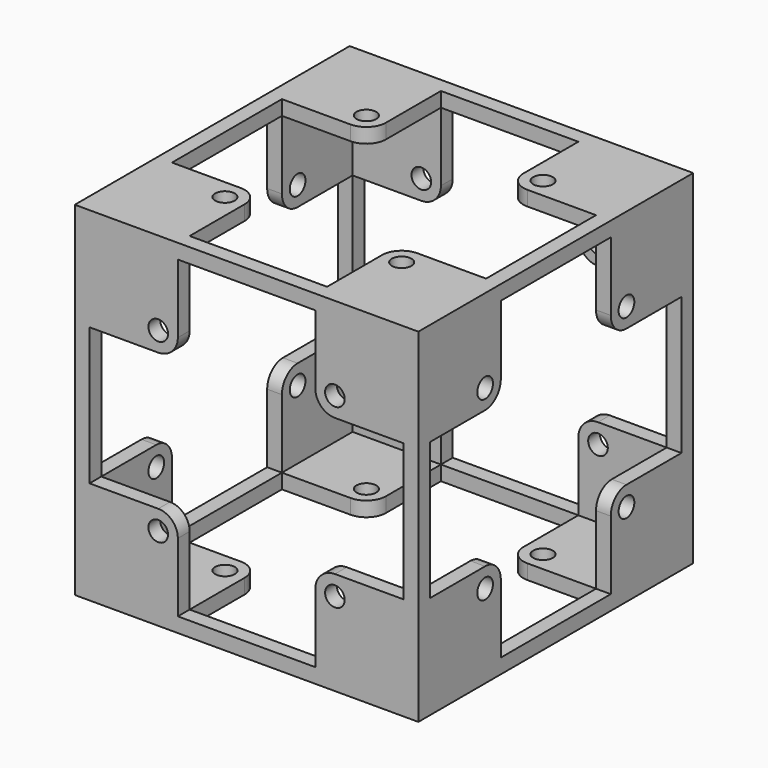
from build123d import *

# Parameters (mm, degrees)
F0_W      = 3
F0_H      = 3
F1_DEPTH  = 35
F2_R      = 2
F3_DEPTH  = 3
F4_R      = 2
F5_DEPTH  = 3
F6_R      = 2
F7_DEPTH  = 3
F8_R      = 2
F9_DEPTH  = 3
F10_R     = 2
F11_DEPTH = 3
F12_R     = 2
F13_DEPTH = 3


with BuildPart() as f1:
    # F0 (on Front) → F1 (new body, symmetric)
    with BuildSketch(Plane.XZ):
        Polygon((-35, 35), (-35, 32), (-32, 32), (-14, 32), (14, 32), (32, 32), (32, 35), align=None)
        Polygon((35, 32), (32, 32), (32, 14), (32, -14), (32, -32), (35, -32), (35, 0), align=None)
        with Locations((33.5, 33.5)):
            Rectangle(F0_W, F0_H)
        Polygon((-35, 32), (-35, 0), (-35, -32), (-32, -32), (-32, -14), (-32, 14), (-32, 32), align=None)
        Polygon((-14, -32), (-32, -32), (-32, -35), (32, -35), (32, -32), (14, -32), align=None)
        with Locations((-33.5, -33.5)):
            Rectangle(F0_W, F0_H)
        with Locations((33.5, -33.5)):
            Rectangle(F0_W, F0_H)
    extrude(amount=F1_DEPTH, both=True)

    # F2 (on face) → F3 (join)
    with BuildSketch(Plane.XZ.offset(35)):
        with BuildLine():
            Line((-32, 14), (-18, 14))
            ThreePointArc((-18, 14), (-20.8284271247, 20.8284271247), (-14, 18))
            Line((-14, 18), (-14, 32))
            Line((-14, 32), (-32, 32))
            Line((-32, 32), (-32, 14))
        make_face()
        with BuildLine():
            ThreePointArc((-14, 18), (-20.8284271247, 20.8284271247), (-18, 14))
            ThreePointArc((-18, 14), (-15.1715728753, 15.1715728753), (-14, 18))
        make_face()
        with Locations((-18, 18)):
            Circle(F2_R, mode=Mode.SUBTRACT)
        with BuildLine():
            ThreePointArc((22, 18), (18, 22), (14, 18))
            ThreePointArc((14, 18), (15.1715728753, 15.1715728753), (18, 14))
            ThreePointArc((18, 14), (20.8284271247, 15.1715728753), (22, 18))
        make_face()
        with Locations((18, 18)):
            Circle(F2_R, mode=Mode.SUBTRACT)
        with BuildLine():
            Line((32, 32), (14, 32))
            Line((14, 32), (14, 18))
            ThreePointArc((14, 18), (18, 22), (22, 18))
            ThreePointArc((22, 18), (20.8284271247, 15.1715728753), (18, 14))
            Line((18, 14), (32, 14))
            Line((32, 14), (32, 32))
        make_face()
        with BuildLine():
            Line((14, -18), (14, -32))
            Line((14, -32), (32, -32))
            Line((32, -32), (32, -14))
            Line((32, -14), (18, -14))
            ThreePointArc((18, -14), (20.8284271247, -15.1715728753), (22, -18))
            ThreePointArc((22, -18), (18, -22), (14, -18))
        make_face()
        with BuildLine():
            ThreePointArc((18, -14), (15.1715728753, -15.1715728753), (14, -18))
            ThreePointArc((14, -18), (18, -22), (22, -18))
            ThreePointArc((22, -18), (20.8284271247, -15.1715728753), (18, -14))
        make_face()
        with Locations((18, -18)):
            Circle(F2_R, mode=Mode.SUBTRACT)
        with BuildLine():
            ThreePointArc((-14, -18), (-15.1715728753, -15.1715728753), (-18, -14))
            ThreePointArc((-18, -14), (-20.8284271247, -20.8284271247), (-14, -18))
        make_face()
        with Locations((-18, -18)):
            Circle(F2_R, mode=Mode.SUBTRACT)
        with BuildLine():
            Line((-18, -14), (-32, -14))
            Line((-32, -14), (-32, -32))
            Line((-32, -32), (-14, -32))
            Line((-14, -32), (-14, -18))
            ThreePointArc((-14, -18), (-20.8284271247, -20.8284271247), (-18, -14))
        make_face()
    extrude(amount=-F3_DEPTH)

    # F4 (on face) → F5 (join)
    with BuildSketch(Plane(origin=(0, 35, 0), x_dir=(-1, 0, 0), z_dir=(0, 1, 0))):
        with BuildLine():
            Line((-14, 18), (-14, 32))
            Line((-14, 32), (-32, 32))
            Line((-32, 32), (-32, 14))
            Line((-32, 14), (-18, 14))
            ThreePointArc((-18, 14), (-20.8284271247, 20.8284271247), (-14, 18))
        make_face()
        with BuildLine():
            ThreePointArc((-18, 14), (-15.1715728753, 15.1715728753), (-14, 18))
            ThreePointArc((-14, 18), (-20.8284271247, 20.8284271247), (-18, 14))
        make_face()
        with Locations((-18, 18)):
            Circle(F4_R, mode=Mode.SUBTRACT)
        with BuildLine():
            Line((14, 32), (14, 18))
            ThreePointArc((14, 18), (18, 22), (22, 18))
            ThreePointArc((22, 18), (20.8284271247, 15.1715728753), (18, 14))
            Line((18, 14), (32, 14))
            Line((32, 14), (32, 32))
            Line((32, 32), (14, 32))
        make_face()
        with BuildLine():
            ThreePointArc((22, 18), (18, 22), (14, 18))
            ThreePointArc((14, 18), (15.1715728753, 15.1715728753), (18, 14))
            ThreePointArc((18, 14), (20.8284271247, 15.1715728753), (22, 18))
        make_face()
        with Locations((18, 18)):
            Circle(F4_R, mode=Mode.SUBTRACT)
        with BuildLine():
            Line((32, -32), (32, -14))
            Line((32, -14), (18, -14))
            ThreePointArc((18, -14), (20.8284271247, -15.1715728753), (22, -18))
            ThreePointArc((22, -18), (18, -22), (14, -18))
            Line((14, -18), (14, -32))
            Line((14, -32), (32, -32))
        make_face()
        with BuildLine():
            ThreePointArc((22, -18), (20.8284271247, -15.1715728753), (18, -14))
            ThreePointArc((18, -14), (15.1715728753, -15.1715728753), (14, -18))
            ThreePointArc((14, -18), (18, -22), (22, -18))
        make_face()
        with Locations((18, -18)):
            Circle(F4_R, mode=Mode.SUBTRACT)
        with BuildLine():
            ThreePointArc((-14, -18), (-15.1715728753, -15.1715728753), (-18, -14))
            ThreePointArc((-18, -14), (-20.8284271247, -20.8284271247), (-14, -18))
        make_face()
        with Locations((-18, -18)):
            Circle(F4_R, mode=Mode.SUBTRACT)
        with BuildLine():
            Line((-18, -14), (-32, -14))
            Line((-32, -14), (-32, -32))
            Line((-32, -32), (-14, -32))
            Line((-14, -32), (-14, -18))
            ThreePointArc((-14, -18), (-20.8284271247, -20.8284271247), (-18, -14))
        make_face()
    extrude(amount=-F5_DEPTH)

    # F6 (on face) → F7 (cut)
    with BuildSketch(Plane.YZ.offset(35)):
        with BuildLine():
            Line((14, 32), (-14, 32))
            Line((-14, 32), (-14, 18))
            ThreePointArc((-14, 18), (-15.1715728753, 15.1715728753), (-18, 14))
            Line((-18, 14), (-32, 14))
            Line((-32, 14), (-32, -14))
            Line((-32, -14), (-18, -14))
            ThreePointArc((-18, -14), (-15.1715728753, -15.1715728753), (-14, -18))
            Line((-14, -18), (-14, -32))
            Line((-14, -32), (14, -32))
            Line((14, -32), (14, -18))
            ThreePointArc((14, -18), (15.1715728753, -15.1715728753), (18, -14))
            Line((18, -14), (32, -14))
            Line((32, -14), (32, 14))
            Line((32, 14), (18, 14))
            ThreePointArc((18, 14), (15.1715728753, 15.1715728753), (14, 18))
            Line((14, 18), (14, 32))
        make_face()
        with Locations((-18, 18)):
            Circle(F6_R)
        with Locations((18, 18)):
            Circle(F6_R)
        with Locations((18, -18)):
            Circle(F6_R)
        with Locations((-18, -18)):
            Circle(F6_R)
    extrude(amount=-F7_DEPTH, mode=Mode.SUBTRACT)

    # F8 (on face) → F9 (cut)
    with BuildSketch(Plane(origin=(-35, 0, 0), x_dir=(0, -1, 0), z_dir=(-1, 0, 0))):
        with BuildLine():
            ThreePointArc((-14, 18), (-15.1715728753, 15.1715728753), (-18, 14))
            Line((-18, 14), (-32, 14))
            Line((-32, 14), (-32, -14))
            Line((-32, -14), (-18, -14))
            ThreePointArc((-18, -14), (-15.1715728753, -15.1715728753), (-14, -18))
            Line((-14, -18), (-14, -32))
            Line((-14, -32), (14, -32))
            Line((14, -32), (14, -18))
            ThreePointArc((14, -18), (15.1715728753, -15.1715728753), (18, -14))
            Line((18, -14), (32, -14))
            Line((32, -14), (32, 14))
            Line((32, 14), (18, 14))
            ThreePointArc((18, 14), (15.1715728753, 15.1715728753), (14, 18))
            Line((14, 18), (14, 32))
            Line((14, 32), (-14, 32))
            Line((-14, 32), (-14, 18))
        make_face()
        with Locations((-18, 18)):
            Circle(F8_R)
        with Locations((18, 18)):
            Circle(F8_R)
        with Locations((18, -18)):
            Circle(F8_R)
        with Locations((-18, -18)):
            Circle(F8_R)
    extrude(amount=-F9_DEPTH, mode=Mode.SUBTRACT)

    # F10 (on face) → F11 (cut)
    with BuildSketch(Plane.XY.offset(35)):
        with BuildLine():
            Line((14, 32), (-14, 32))
            Line((-14, 32), (-14, 18))
            ThreePointArc((-14, 18), (-15.1715728753, 15.1715728753), (-18, 14))
            Line((-18, 14), (-32, 14))
            Line((-32, 14), (-32, -14))
            Line((-32, -14), (-18, -14))
            ThreePointArc((-18, -14), (-15.1715728753, -15.1715728753), (-14, -18))
            Line((-14, -18), (-14, -32))
            Line((-14, -32), (14, -32))
            Line((14, -32), (14, -18))
            ThreePointArc((14, -18), (15.1715728753, -15.1715728753), (18, -14))
            Line((18, -14), (32, -14))
            Line((32, -14), (32, 14))
            Line((32, 14), (18, 14))
            ThreePointArc((18, 14), (15.1715728753, 15.1715728753), (14, 18))
            Line((14, 18), (14, 32))
        make_face()
        with Locations((-18, 18)):
            Circle(F10_R)
        with Locations((18, 18)):
            Circle(F10_R)
        with Locations((18, -18)):
            Circle(F10_R)
        with Locations((-18, -18)):
            Circle(F10_R)
    extrude(amount=-F11_DEPTH, mode=Mode.SUBTRACT)

    # F12 (on face) → F13 (cut)
    with BuildSketch(Plane(origin=(0, 0, -35), x_dir=(1, 0, 0), z_dir=(0, 0, -1))):
        with BuildLine():
            Line((14, 32), (-14, 32))
            Line((-14, 32), (-14, 18))
            ThreePointArc((-14, 18), (-15.1715728753, 15.1715728753), (-18, 14))
            Line((-18, 14), (-32, 14))
            Line((-32, 14), (-32, -14))
            Line((-32, -14), (-18, -14))
            ThreePointArc((-18, -14), (-15.1715728753, -15.1715728753), (-14, -18))
            Line((-14, -18), (-14, -32))
            Line((-14, -32), (14, -32))
            Line((14, -32), (14, -18))
            ThreePointArc((14, -18), (15.1715728753, -15.1715728753), (18, -14))
            Line((18, -14), (32, -14))
            Line((32, -14), (32, 14))
            Line((32, 14), (18, 14))
            ThreePointArc((18, 14), (15.1715728753, 15.1715728753), (14, 18))
            Line((14, 18), (14, 32))
        make_face()
        with Locations((-18, 18)):
            Circle(F12_R)
        with Locations((-18, -18)):
            Circle(F12_R)
        with Locations((18, -18)):
            Circle(F12_R)
        with Locations((18, 18)):
            Circle(F12_R)
    extrude(amount=-F13_DEPTH, mode=Mode.SUBTRACT)


solid = f1.part
